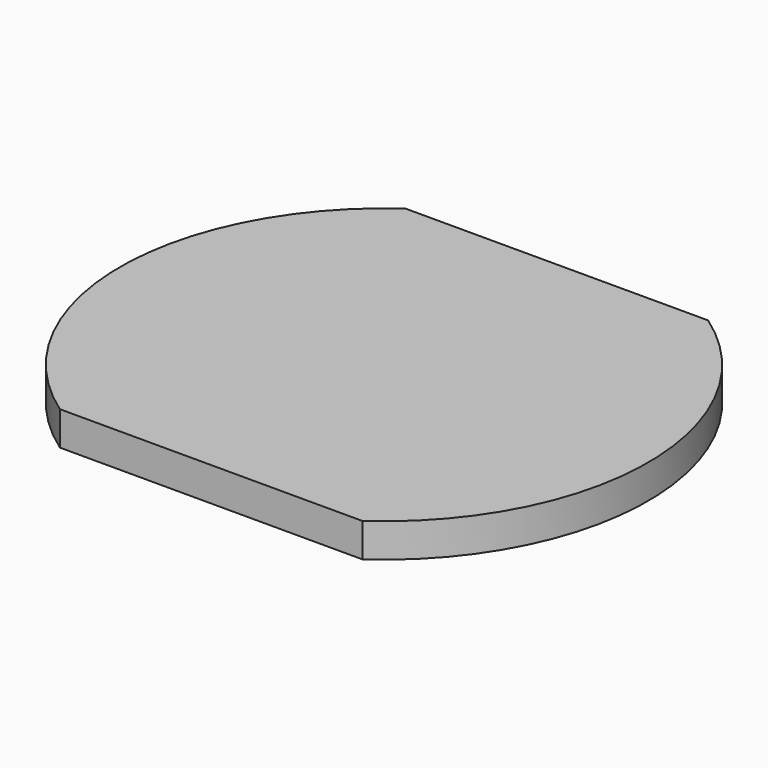
from build123d import *

# Parameters (mm, degrees)
PAD_1_DEPTH = 5


with BuildPart() as part:
    # Sketch_1 → Pad_1 (new body)
    with BuildSketch(Plane.XY):
        with BuildLine():
            ThreePointArc((22.43194, -38.727507), (39.04768, -6.662324), (22.263101, 25.314803))
            Line((22.263101, 25.314803), (-22.432703, 25.314803))
            ThreePointArc((-22.432703, 25.314803), (-39.047572, -6.750578), (-22.2631, -38.727507))
            Line((-22.2631, -38.727507), (22.43194, -38.727507))
        make_face()
    extrude(amount=PAD_1_DEPTH)


solid = part.part
